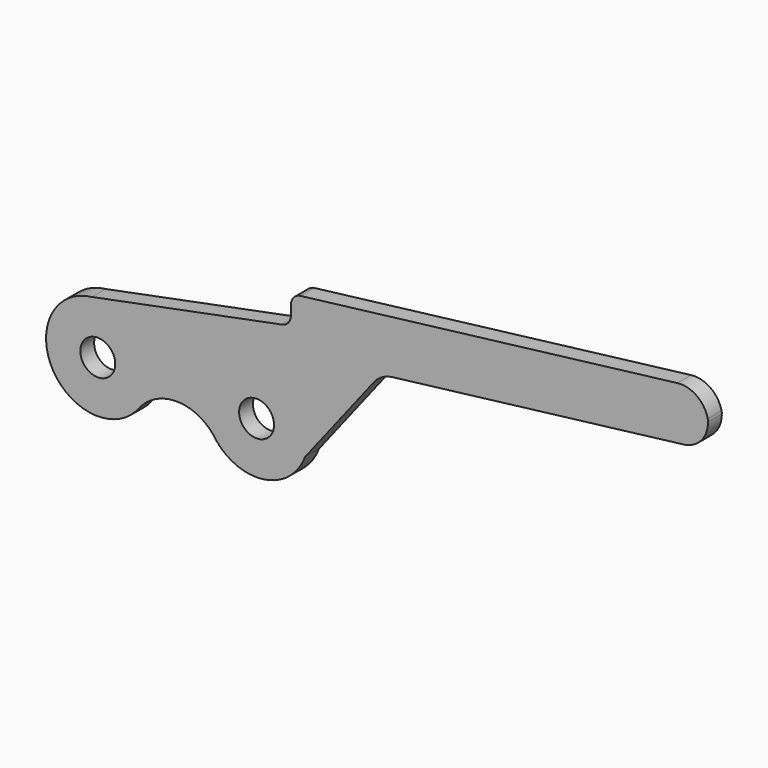
from build123d import *

# Parameters (mm, degrees)
F0_R     = 3.2131
F1_DEPTH = 3.175


with BuildPart() as f1:
    # F0 (on Front) → F1 (new body)
    with BuildSketch(Plane.XZ):
        with BuildLine():
            Line((22.890408, 27.506696), (-12.11563, 20.602843))
            ThreePointArc((-12.11563, 20.602843), (-19.26079, 6.341563), (-3.330033, 5.536308))
            ThreePointArc((-3.330033, 5.536308), (3.456613, 8.747974), (10.238622, 5.526529))
            ThreePointArc((10.238622, 5.526529), (19.263404, 1.28949), (27.123488, 7.422862))
            Line((27.123488, 7.422862), (39.810864, 23.678451))
            ThreePointArc((39.810864, 23.678451), (41.31548, 24.975114), (43.202291, 25.595716))
            Line((43.202291, 25.595716), (96.851471, 32.11941))
            ThreePointArc((96.851471, 32.11941), (100.158122, 33.930993), (101.305472, 37.522561))
            ThreePointArc((101.305472, 37.522561), (99.330822, 40.734497), (95.686379, 41.700833))
            Line((95.686379, 41.700833), (26.31595, 33.265449))
            ThreePointArc((26.31595, 33.265449), (25.040141, 32.59564), (24.529233, 31.248307))
            Line((24.529233, 31.248307), (24.529233, 29.500295))
            ThreePointArc((24.529233, 29.500295), (24.066939, 28.209929), (22.890408, 27.506696))
        make_face()
        with Locations((-11.032532, 11.139624)):
            Circle(F0_R, mode=Mode.SUBTRACT)
        with Locations((18.200338, 10.754981)):
            Circle(F0_R, mode=Mode.SUBTRACT)
        with BuildLine():
            ThreePointArc((101.281119, 37.775471), (101.294877, 37.649168), (101.305472, 37.522561))
            ThreePointArc((101.305472, 37.522561), (101.325527, 37.397104), (101.342439, 37.271185))
            Line((101.342439, 37.271185), (101.281119, 37.775471))
        make_face()
    extrude(amount=F1_DEPTH)


solid = f1.part
